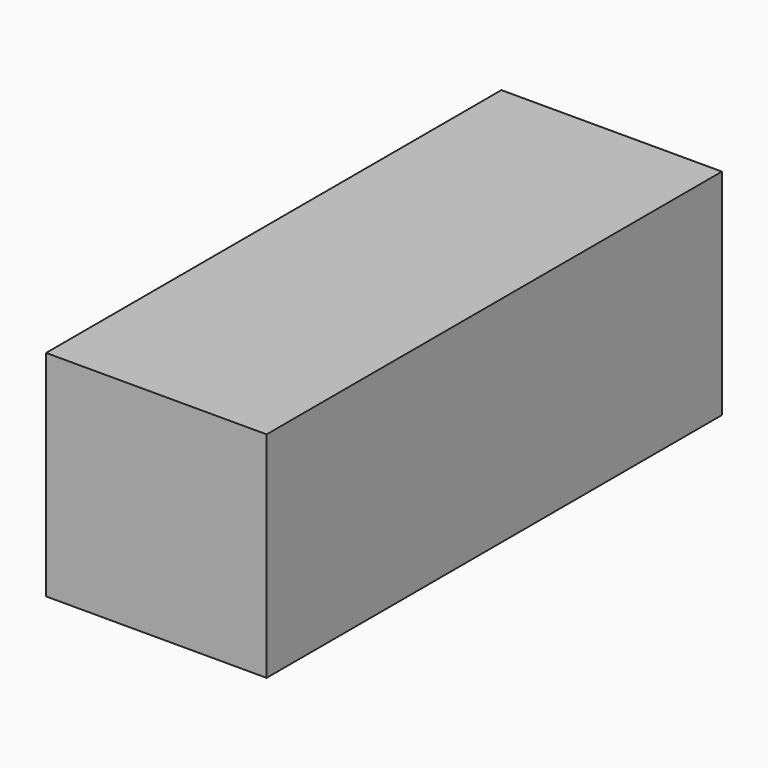
from build123d import *

# Parameters (mm, degrees)
F0_W     = 49.215341
F0_H     = 47.84262
F1_DEPTH = 127


with BuildPart() as f1:
    # F0 (on Front) → F1 (new body)
    with BuildSketch(Plane.XZ):
        with Locations((-15.856775, 6.482632)):
            Rectangle(F0_W, F0_H)
    extrude(amount=F1_DEPTH)


with BuildPart() as f1_1:
    # F2: moved
    add(f1.part.moved(Location((-54.864, -269.494, 33.274))))


solid = f1_1.part
